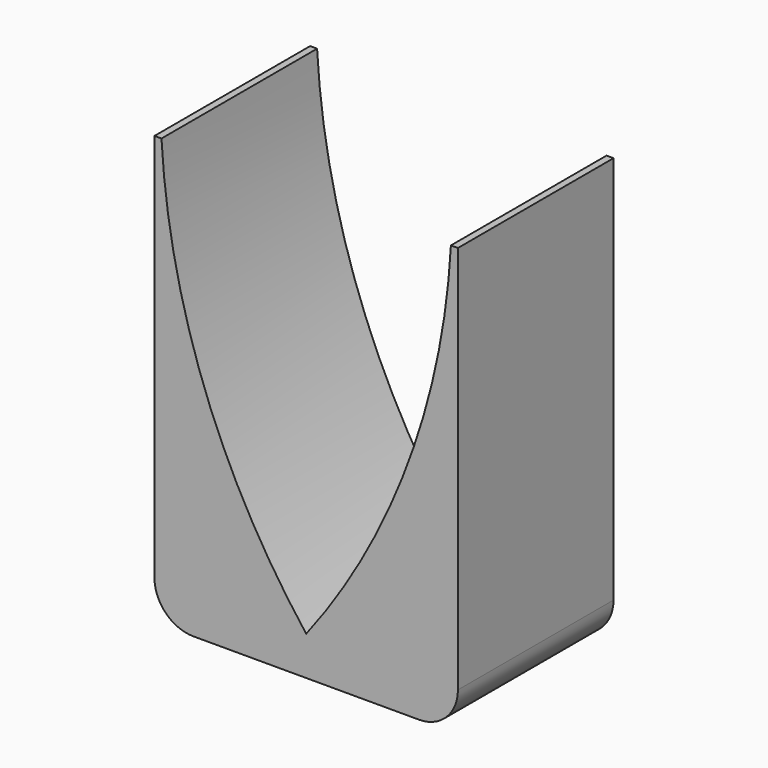
from build123d import *

# Parameters (mm, degrees)
F0_W     = 39
F0_H     = 55
F1_DEPTH = 25
F3_DEPTH = 25
F4_R     = 5


with BuildPart() as f1:
    # F0 (on Front) → F1 (new body)
    with BuildSketch(Plane.XZ):
        Rectangle(F0_W, F0_H)
    extrude(amount=F1_DEPTH)

    # F2 (on face) → F3 (cut)
    with BuildSketch(Plane.XZ.offset(25)):
        with BuildLine():
            Line((18.6, 27.5), (-18.6, 27.5))
            ThreePointArc((-18.6, 27.5), (-13.089826, 1.090185), (0, -22.5))
            ThreePointArc((0, -22.5), (13.089826, 1.090185), (18.6, 27.5))
        make_face()
    extrude(amount=-F3_DEPTH, mode=Mode.SUBTRACT)

    # F4
    f4_edges = [f1.edges().sort_by_distance(p)[0] for p in [
        (-19.5, -12.5, -27.5),
        (19.5, -12.5, -27.5),
    ]]
    fillet(f4_edges, radius=F4_R)


solid = f1.part
